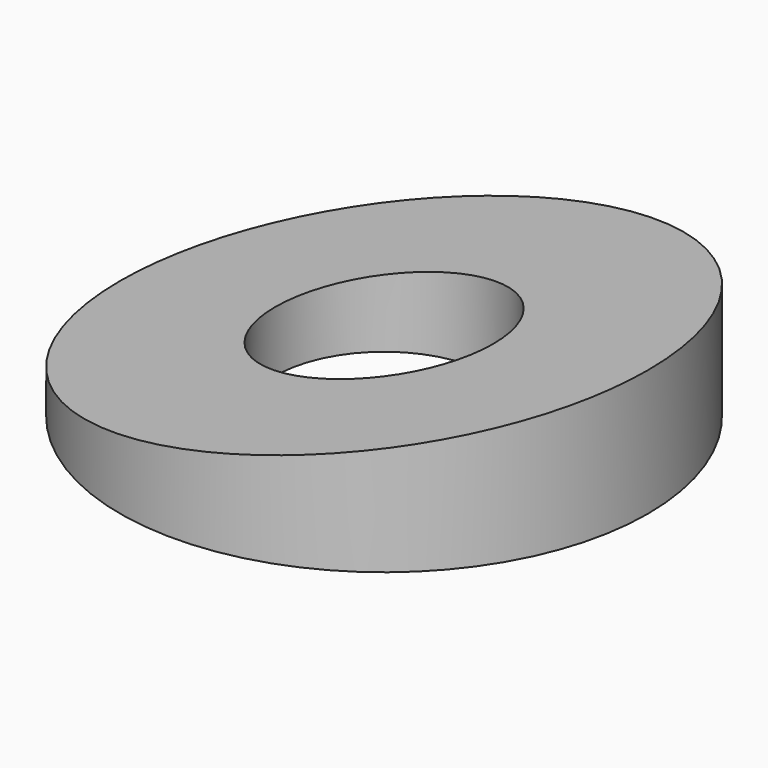
from build123d import *

# Parameters (mm, degrees)
F0_R     = 9.5
F0_R_2   = 3.925
F1_DEPTH = 6
F3_DEPTH = 25


with BuildPart() as f1:
    # F0 (on Top) → F1 (new body)
    with BuildSketch(Plane.XY):
        Circle(F0_R)
        Circle(F0_R_2, mode=Mode.SUBTRACT)
    extrude(amount=F1_DEPTH)

    # F2 (on Front) → F3 (intersect, symmetric)
    with BuildSketch(Plane.XZ):
        Polygon((-9.5, 1.2), (-9.5, 0), (9.5, 0), (9.5, 4.5502126335), align=None)
    extrude(amount=F3_DEPTH, both=True, mode=Mode.INTERSECT)


solid = f1.part
